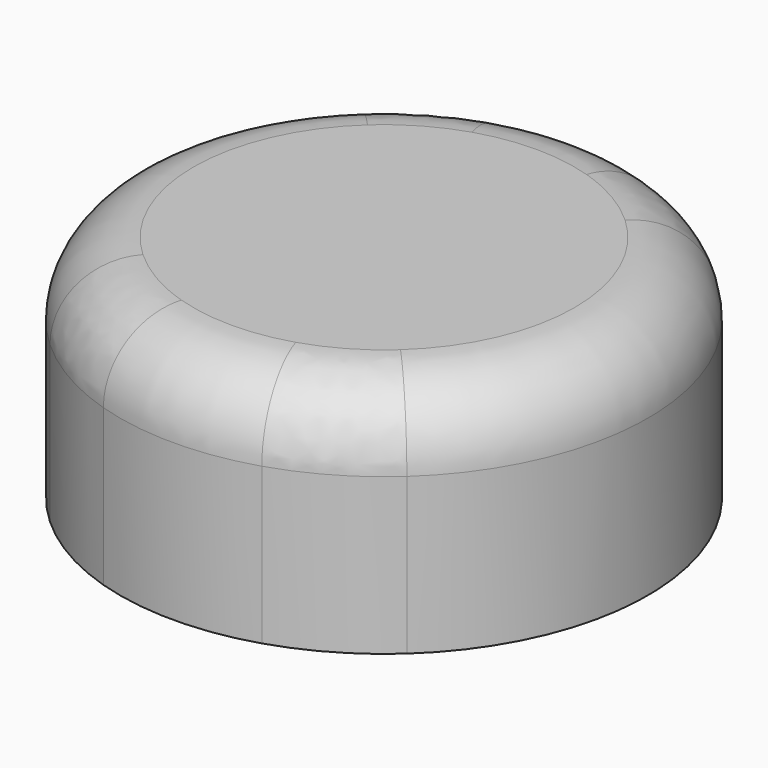
from build123d import *

# Parameters (mm, degrees)
F1_R     = 18.2626
F1_R_2   = 15.0876
F2_DEPTH = 12.7
F3_R     = 18.2626
F4_DEPTH = 3.175
F6_DEPTH = 12.7
F7_R     = 5.08


with BuildPart() as f2:
    # F1 (on Top) → F2 (new body)
    with BuildSketch(Plane.XY):
        Circle(F1_R)
        Circle(F1_R_2, mode=Mode.SUBTRACT)
    extrude(amount=F2_DEPTH)

    # F3 (on face) → F4 (join)
    with BuildSketch(Plane.XY.offset(12.7)):
        Circle(F3_R)
    extrude(amount=F4_DEPTH)

    # F5 (on face) → F6 (join, through all)
    with BuildSketch(Plane(origin=(0, 0, 0), x_dir=(1, 0, 0), z_dir=(0, 0, -1))):
        with BuildLine():
            ThreePointArc((-17.827214, 3.963961), (-18.2626, 0), (-17.827214, -3.963961))
            ThreePointArc((-17.827214, -3.963961), (-14.2748, 0), (-17.827214, 3.963961))
        make_face()
        with BuildLine():
            ThreePointArc((-12.346498, -13.45684), (-9.1313, -15.815876), (-5.480716, -17.420801))
            ThreePointArc((-5.480716, -17.420801), (-7.1374, -12.362339), (-12.346498, -13.45684))
        make_face()
        with BuildLine():
            ThreePointArc((5.480716, -17.420801), (9.1313, -15.815876), (12.346498, -13.45684))
            ThreePointArc((12.346498, -13.45684), (7.1374, -12.362339), (5.480716, -17.420801))
        make_face()
        with BuildLine():
            ThreePointArc((17.827214, -3.963961), (18.2626, 0), (17.827214, 3.963961))
            ThreePointArc((17.827214, 3.963961), (14.2748, 0), (17.827214, -3.963961))
        make_face()
        with BuildLine():
            ThreePointArc((12.346498, 13.45684), (9.1313, 15.815876), (5.480716, 17.420801))
            ThreePointArc((5.480716, 17.420801), (7.1374, 12.362339), (12.346498, 13.45684))
        make_face()
        with BuildLine():
            ThreePointArc((-5.480716, 17.420801), (-9.1313, 15.815876), (-12.346498, 13.45684))
            ThreePointArc((-12.346498, 13.45684), (-7.1374, 12.362339), (-5.480716, 17.420801))
        make_face()
    extrude(amount=-F6_DEPTH)

    # F7
    f7_edges = [f2.edges().sort_by_distance(p)[0] for p in [
        (-18.2626, 0, 15.875),
    ]]
    fillet(f7_edges, radius=F7_R)


solid = f2.part
